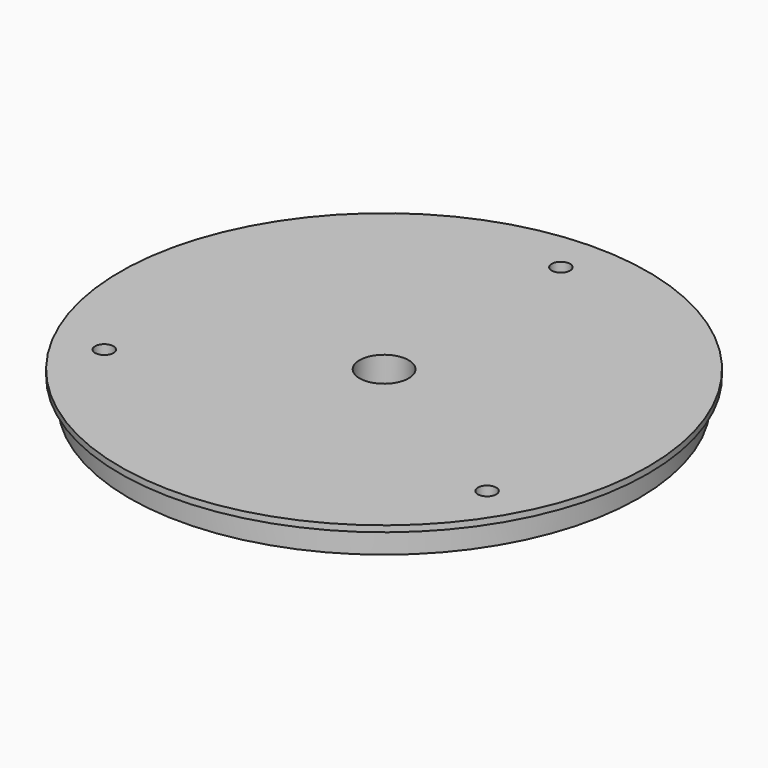
from build123d import *

# Parameters (mm, degrees)
SKETCH006_R     = 41.5
SKETCH006_R_2   = 1.5
SKETCH006_R_3   = 4
PAD_DEPTH       = 4
SKETCH007_R     = 38.5
SKETCH007_R_2   = 1.5
SKETCH007_R_3   = 4
PAD001_DEPTH    = 1
SKETCH008_R     = 43
SKETCH008_R_2   = 1.5
SKETCH008_R_3   = 4
PAD002_DEPTH    = 1
SKETCH_R        = 31
SKETCH_R_2      = 10
POCKET_DEPTH    = 4
CHAMFER_SIZE    = 0.9
CHAMFER001_SIZE = 3
CHAMFER002_SIZE = 2


with BuildPart() as part:
    # Sketch006 → Pad (new body)
    with BuildSketch(Plane.XY.offset(22)):
        Circle(SKETCH006_R)
        with Locations((0, 36)):
            Circle(SKETCH006_R_2, mode=Mode.SUBTRACT)
        with Locations((31.176915, -18)):
            Circle(SKETCH006_R_2, mode=Mode.SUBTRACT)
        with Locations((-31.176915, -18)):
            Circle(SKETCH006_R_2, mode=Mode.SUBTRACT)
        Circle(SKETCH006_R_3, mode=Mode.SUBTRACT)
    extrude(amount=PAD_DEPTH)

    # Sketch007 → Pad001 (join)
    with BuildSketch(Plane.XY.offset(22)):
        Circle(SKETCH007_R)
        with Locations((0, 36)):
            Circle(SKETCH007_R_2, mode=Mode.SUBTRACT)
        with Locations((31.176915, -18)):
            Circle(SKETCH007_R_2, mode=Mode.SUBTRACT)
        with Locations((-31.176915, -18)):
            Circle(SKETCH007_R_2, mode=Mode.SUBTRACT)
        Circle(SKETCH007_R_3, mode=Mode.SUBTRACT)
    extrude(amount=-PAD001_DEPTH)

    # Sketch008 → Pad002 (join)
    with BuildSketch(Plane.XY.offset(26)):
        Circle(SKETCH008_R)
        with Locations((0, 36)):
            Circle(SKETCH008_R_2, mode=Mode.SUBTRACT)
        with Locations((31.176915, -18)):
            Circle(SKETCH008_R_2, mode=Mode.SUBTRACT)
        with Locations((-31.176915, -18)):
            Circle(SKETCH008_R_2, mode=Mode.SUBTRACT)
        Circle(SKETCH008_R_3, mode=Mode.SUBTRACT)
    extrude(amount=PAD002_DEPTH)

    # Sketch (on Face6 of Pad002) → Pocket (cut)
    with BuildSketch(Plane(origin=(0, 0, 21), x_dir=(1, 0, 0), z_dir=(0, 0, -1))):
        Circle(SKETCH_R)
        Circle(SKETCH_R_2, mode=Mode.SUBTRACT)
    extrude(amount=-POCKET_DEPTH, mode=Mode.SUBTRACT)

    # Chamfer
    chamfer_edges = [part.edges().sort_by_distance(p)[0] for p in [
        (-4, 0, 21),
    ]]
    chamfer(chamfer_edges, length=CHAMFER_SIZE)

    # Chamfer001
    chamfer001_edges = [part.edges().sort_by_distance(p)[0] for p in [
        (-10, 0, 25),
    ]]
    chamfer(chamfer001_edges, length=CHAMFER001_SIZE)

    # Chamfer002
    chamfer002_edges = [part.edges().sort_by_distance(p)[0] for p in [
        (-31, 0, 25),
    ]]
    chamfer(chamfer002_edges, length=CHAMFER002_SIZE)


solid = part.part
